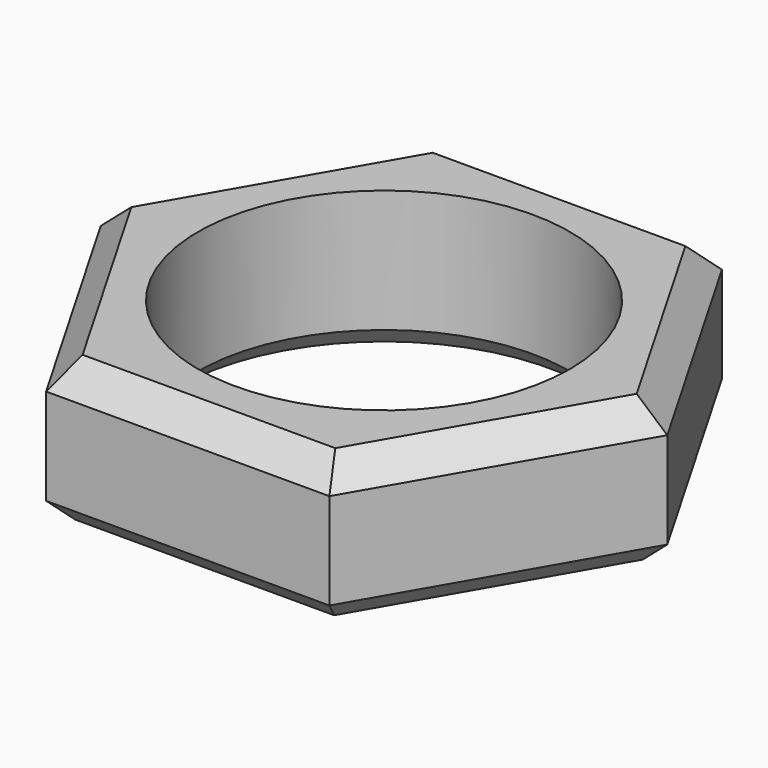
from build123d import *

# Parameters (mm, degrees)
F1_R     = 44.522092
F2_DEPTH = 34.475029
F3_SIZE  = 6.35
F4_SIZE  = 5.08


with BuildPart() as f2:
    # F1 (on face) → F2 (new body)
    with BuildSketch(Plane.XY):
        Polygon((-33.91923, -58.74983), (33.91923, -58.74983), (67.83846, 0), (33.91923, 58.74983), (-33.91923, 58.74983), (-67.83846, 0), align=None)
        Circle(F1_R, mode=Mode.SUBTRACT)
    extrude(amount=F2_DEPTH)

    # F3
    f3_edges = [f2.edges().sort_by_distance(p)[0] for p in [
        (0, 58.74983, 34.475029),
        (-50.878845, -29.374915, 34.475029),
        (50.878845, 29.374915, 34.475029),
        (0, -58.74983, 34.475029),
        (50.878845, -29.374915, 34.475029),
        (-50.878845, 29.374915, 34.475029),
    ]]
    chamfer(f3_edges, length=F3_SIZE)

    # F4
    f4_edges = [f2.edges().sort_by_distance(p)[0] for p in [
        (50.878845, -29.374915, 0),
        (50.878845, 29.374915, 0),
        (0, 58.74983, 0),
        (-50.878845, 29.374915, 0),
        (-50.878845, -29.374915, 0),
        (0, -58.74983, 0),
        (-44.522092, 0, 0),
    ]]
    chamfer(f4_edges, length=F4_SIZE)


solid = f2.part
